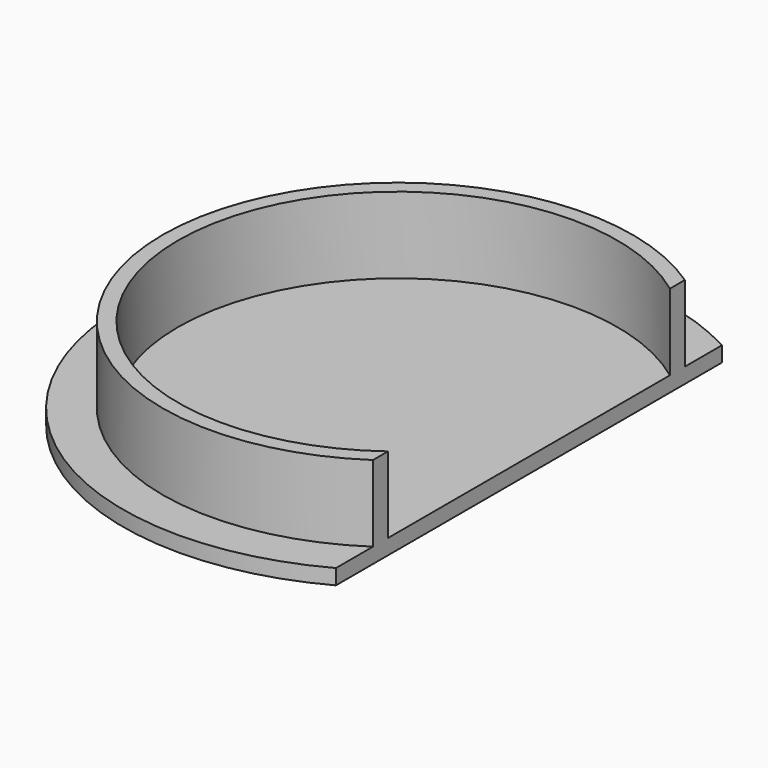
from build123d import *

# Parameters (mm, degrees)
F1_DEPTH = 15
F2_DEPTH = 2.5


with BuildPart() as f1:
    # F0 (on Top) → F1 (new body)
    with BuildSketch(Plane.XY):
        with BuildLine():
            Line((21.5, 28.874729436), (21.5, 31.9374388453))
            ThreePointArc((21.5, 31.9374388453), (-38.5, 0), (21.5, -31.9374388453))
            Line((21.5, -31.9374388453), (21.5, -28.874729436))
            ThreePointArc((21.5, -28.874729436), (-36, 0), (21.5, 28.874729436))
        make_face()
    extrude(amount=F1_DEPTH)

    # F0 (on Top) → F2 (join)
    with BuildSketch(Plane.XY):
        with BuildLine():
            ThreePointArc((21.5, -31.9374388453), (-38.5, 0), (21.5, 31.9374388453))
            Line((21.5, 31.9374388453), (21.5, 39.5316329033))
            ThreePointArc((21.5, 39.5316329033), (-45, 0), (21.5, -39.5316329033))
            Line((21.5, -39.5316329033), (21.5, -31.9374388453))
        make_face()
        with BuildLine():
            Line((21.5, -28.874729436), (21.5, 28.874729436))
            ThreePointArc((21.5, 28.874729436), (-36, 0), (21.5, -28.874729436))
        make_face()
    extrude(amount=F2_DEPTH)


solid = f1.part
